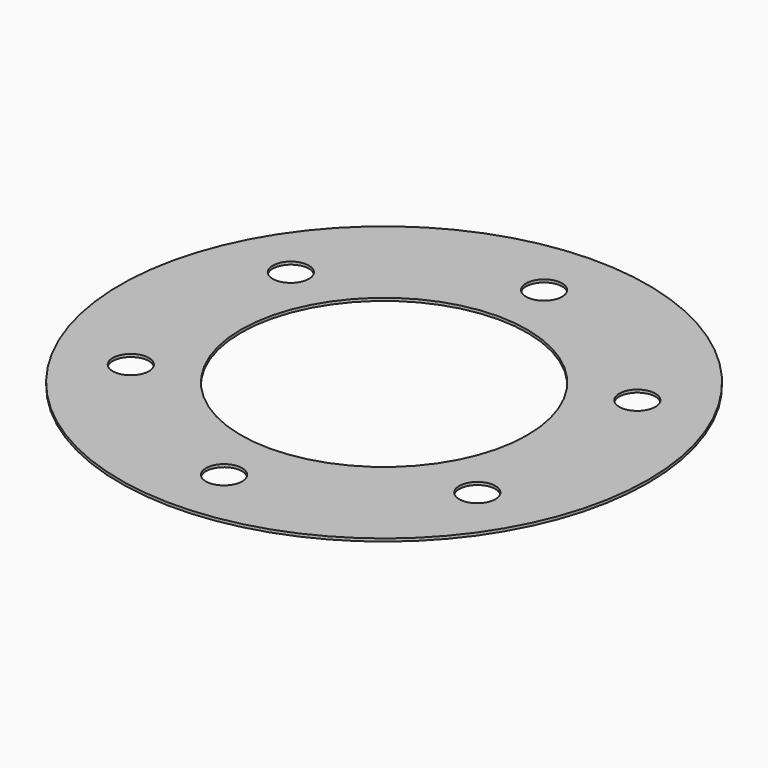
from build123d import *

# Parameters (mm, degrees)
F0_R     = 47.5
F0_R_2   = 3.25
F0_R_3   = 25.75
F1_DEPTH = 0.5


with BuildPart() as f1:
    # F0 (on Top) → F1 (new body)
    with BuildSketch(Plane.XY):
        Circle(F0_R)
        with Locations((-31.176915, -18)):
            Circle(F0_R_2, mode=Mode.SUBTRACT)
        with Locations((0, -36)):
            Circle(F0_R_2, mode=Mode.SUBTRACT)
        with Locations((31.176915, -18)):
            Circle(F0_R_2, mode=Mode.SUBTRACT)
        with Locations((-31.176915, 18)):
            Circle(F0_R_2, mode=Mode.SUBTRACT)
        Circle(F0_R_3, mode=Mode.SUBTRACT)
        with Locations((31.176915, 18)):
            Circle(F0_R_2, mode=Mode.SUBTRACT)
        with Locations((0, 36)):
            Circle(F0_R_2, mode=Mode.SUBTRACT)
    extrude(amount=F1_DEPTH)


solid = f1.part
